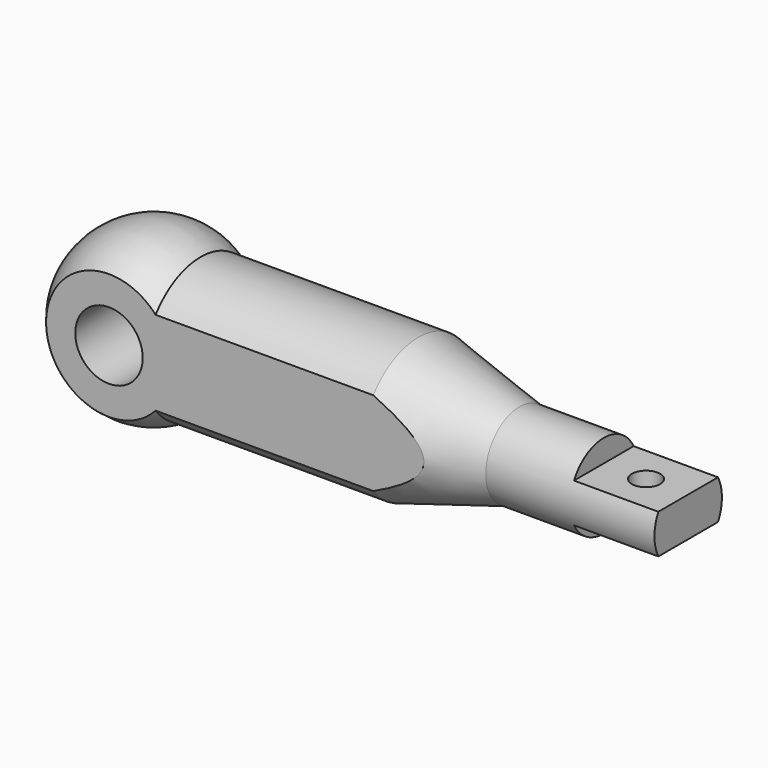
from build123d import *

# Parameters (mm, degrees)
F2_R     = 6
F3_DEPTH = 25
F5_DEPTH = 25
F6_W     = 15
F6_H     = 5
F7_DEPTH = 12.5
F8_R     = 2.5
F9_DEPTH = 12.5


with BuildPart() as f1:
    # F0 (on Front) → F1 (revolve)
    with BuildSketch(Plane.XZ):
        with BuildLine():
            Line((47, 12.5), (8.291562, 12.5))
            ThreePointArc((8.291562, 12.5), (-7.093186, 13.21691), (-15, 0))
            Line((-15, 0), (0, 0))
            Line((0, 0), (95, 0))
            Line((95, 0), (95, 7.5))
            Line((95, 7.5), (65, 7.5))
            Line((65, 7.5), (47, 12.5))
        make_face()
    revolve(axis=Axis((47.5, 0, 0), (-1, 0, 0)))

    # F2 (on Front) → F3 (cut, symmetric)
    with BuildSketch(Plane.XZ):
        Circle(F2_R)
    extrude(amount=F3_DEPTH, both=True, mode=Mode.SUBTRACT)

    # F4 (on Top) → F5 (intersect, symmetric)
    with BuildSketch(Plane.XY):
        Polygon((-20, -10), (0, -10), (100, -10), (100, 10), (-20, 10), align=None)
    extrude(amount=F5_DEPTH, both=True, mode=Mode.INTERSECT)

    # F6 (on Front) → F7 (cut, symmetric)
    with BuildSketch(Plane.XZ):
        with Locations((87.5, -6)):
            Rectangle(F6_W, F6_H)
        with Locations((87.5, 6)):
            Rectangle(F6_W, F6_H)
    extrude(amount=F7_DEPTH, both=True, mode=Mode.SUBTRACT)

    # F8 (on Top) → F9 (cut, symmetric)
    with BuildSketch(Plane.XY):
        with Locations((87.5, 0)):
            Circle(F8_R)
    extrude(amount=F9_DEPTH, both=True, mode=Mode.SUBTRACT)


solid = f1.part
